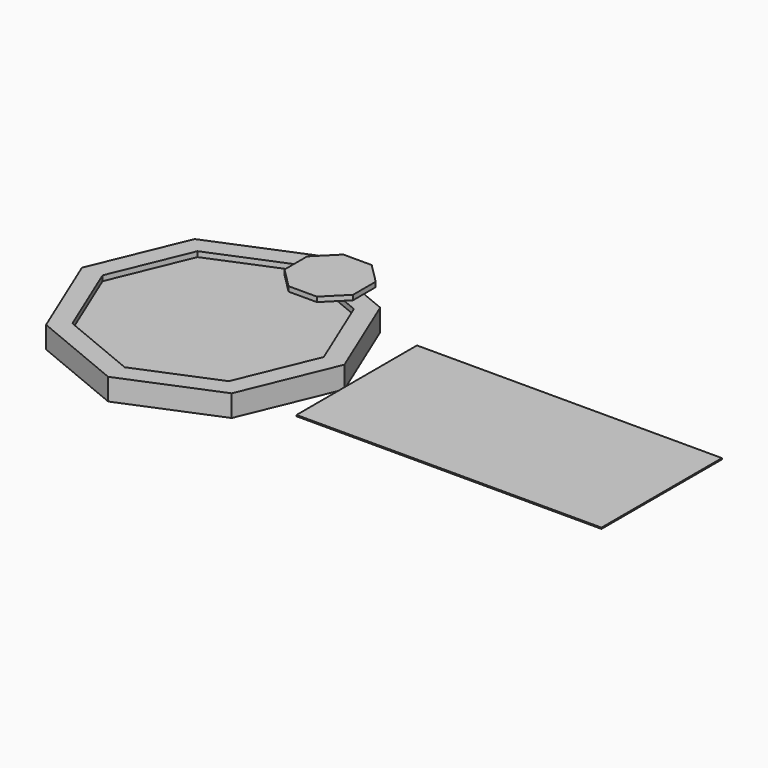
from build123d import *

# Parameters (mm, degrees)
F1_DEPTH = 4.572
F3_DEPTH = 1.0922
F5_W     = 64.089127
F5_H     = 31.638936
F6_DEPTH = 0.127
F8_DEPTH = 1.016


with BuildPart() as f1:
    # F0 (on Top) → F1 (new body)
    with BuildSketch(Plane.XY):
        Polygon((0, -27.582662), (19.503887, -19.503887), (27.582662, 0), (19.503887, 19.503887), (0, 27.582662), (-19.503887, 19.503887), (-27.582662, 0), (-19.503887, -19.503887), align=None)
    extrude(amount=F1_DEPTH)

    # F2 (on face) → F3 (cut)
    with BuildSketch(Plane.XY.offset(4.572)):
        Polygon((0, -23.243293), (16.43549, -16.43549), (23.243293, 0), (16.43549, 16.43549), (0, 23.243293), (-16.43549, 16.43549), (-23.243293, 0), (-16.43549, -16.43549), align=None)
    extrude(amount=-F3_DEPTH, mode=Mode.SUBTRACT)

    # F7 (on face) → F8 (join)
    with BuildSketch(Plane.XY.offset(4.572)):
        Polygon((4.215811, 14.537216), (10.177869, 14.537216), (14.39368, 18.753027), (14.39368, 24.715085), (10.177869, 28.930896), (4.215811, 28.930896), (0, 24.715085), (0, 18.753027), align=None)
        Polygon((4.215811, 14.537216), (10.177869, 14.537216), (14.39368, 18.753027), (14.39368, 24.715085), (10.177869, 28.930896), (4.215811, 28.930896), (0, 24.715085), (0, 18.753027), align=None)
        Polygon((4.215811, 14.537216), (10.177869, 14.537216), (14.39368, 18.753027), (14.39368, 24.715085), (10.177869, 28.930896), (4.215811, 28.930896), (0, 24.715085), (0, 18.753027), align=None)
    extrude(amount=F8_DEPTH)


with BuildPart() as f6:
    # F5 (on offset) → F6 (new body, symmetric)
    with BuildSketch(Plane.XY.offset(2.286)):
        with Locations((62.060986, 0.202814)):
            Rectangle(F5_W, F5_H)
    extrude(amount=F6_DEPTH, both=True)


solid = Compound([f1.part, f6.part])
